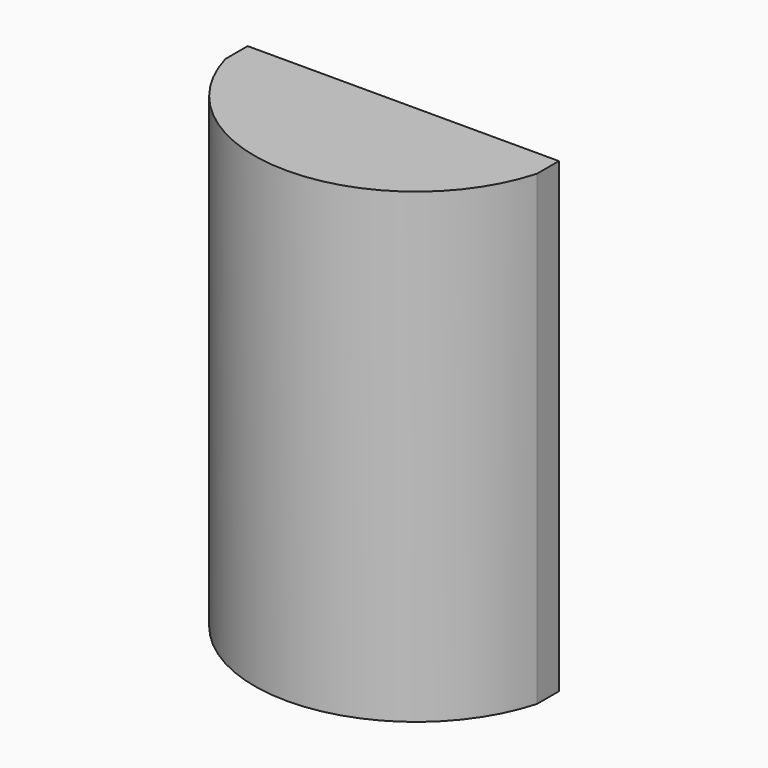
from build123d import *

# Parameters (mm, degrees)
F0_W     = 203.2
F0_H     = 304.8
F1_DEPTH = 95.25
F3_DEPTH = 317.5


with BuildPart() as f1:
    # F0 (on Front) → F1 (new body)
    with BuildSketch(Plane.XZ):
        Rectangle(F0_W, F0_H)
    extrude(amount=F1_DEPTH)

    # F2 (on face) → F3 (cut)
    with BuildSketch(Plane.XY.offset(152.4)):
        with BuildLine():
            ThreePointArc((101.6, -17.89495), (0.103917, -94.978631), (-101.6, -18.169373))
            Line((-101.6, -18.169373), (-101.6, -95.25))
            Line((-101.6, -95.25), (101.6, -95.25))
            Line((101.6, -95.25), (101.6, -17.89495))
        make_face()
    extrude(amount=-F3_DEPTH, mode=Mode.SUBTRACT)


solid = f1.part
